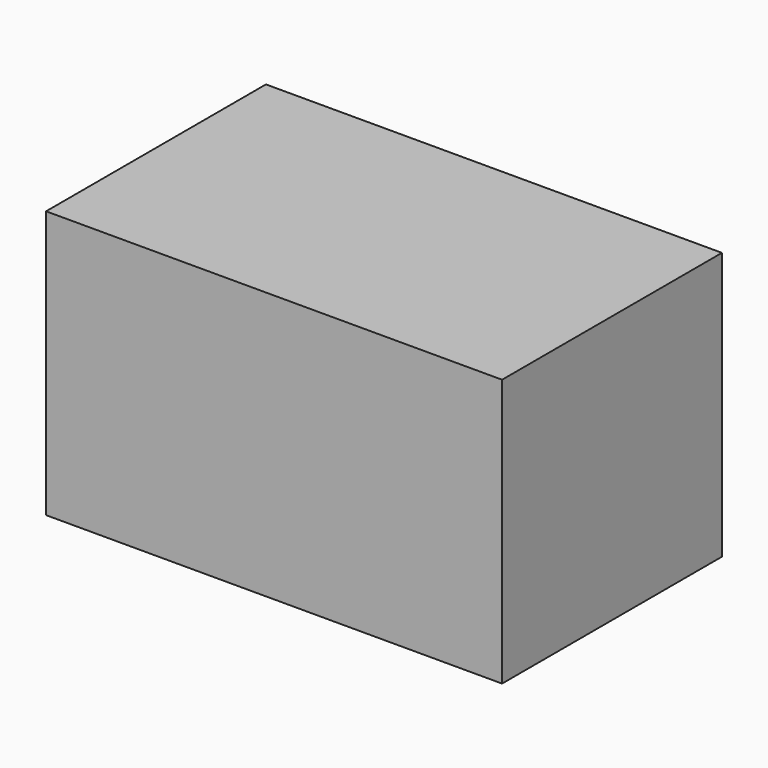
from build123d import *

# Parameters (mm, degrees)
F0_W     = 76.541699
F0_H     = 74.50857
F1_DEPTH = 127
F3_R     = 24.434123
F4_DEPTH = 25.4


with BuildPart() as f1:
    # F0 (on Right) → F1 (new body)
    with BuildSketch(Plane.YZ):
        with Locations((38.270849, 37.254285)):
            Rectangle(F0_W, F0_H)
    extrude(amount=F1_DEPTH)

    # F3 (on face) → F4 (cut)
    with BuildSketch(Plane.XY.offset(74.50857)):
        with Locations((69.902609, 41.339627)):
            Circle(F3_R)
    extrude(amount=F4_DEPTH, mode=Mode.SUBTRACT)


solid = f1.part
